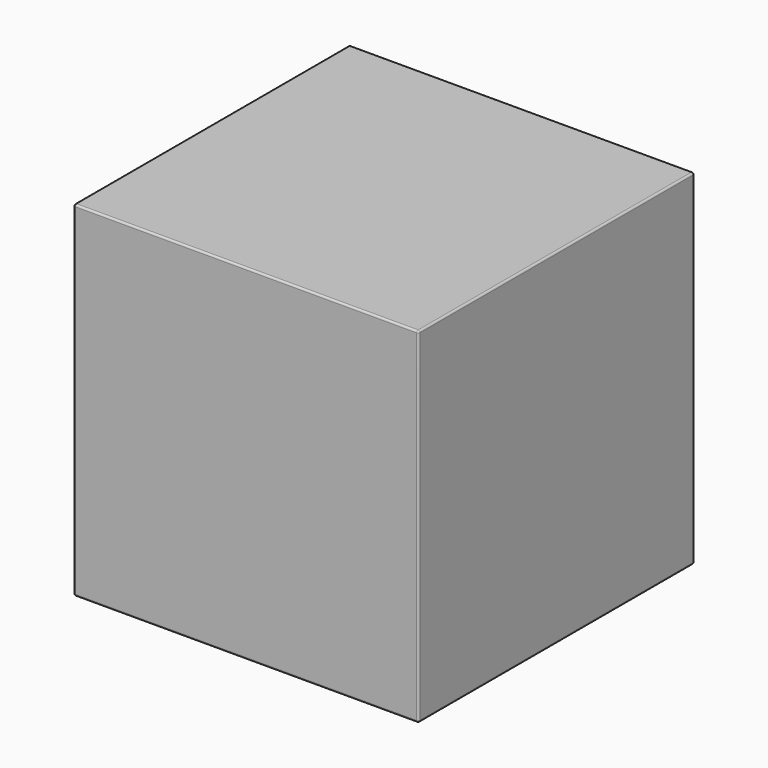
from build123d import *

# Parameters (mm, degrees)
SKETCH_W  = 185
SKETCH_H  = 185
PAD_DEPTH = 185
FILLET_R  = 1


with BuildPart() as part:
    # Sketch → Pad (new body)
    with BuildSketch(Plane.XY):
        with Locations((92.5, -92.5)):
            Rectangle(SKETCH_W, SKETCH_H)
    extrude(amount=PAD_DEPTH)

    # Fillet
    fillet_edges = [part.edges().sort_by_distance(p)[0] for p in [
        (0, 0, 92.5),
        (185, 0, 92.5),
        (92.5, 0, 0),
        (92.5, 0, 185),
        (185, -185, 92.5),
        (185, -92.5, 0),
        (185, -92.5, 185),
        (0, -185, 92.5),
        (92.5, -185, 0),
        (92.5, -185, 185),
        (0, -92.5, 0),
        (0, -92.5, 185),
    ]]
    fillet(fillet_edges, radius=FILLET_R)


solid = part.part
